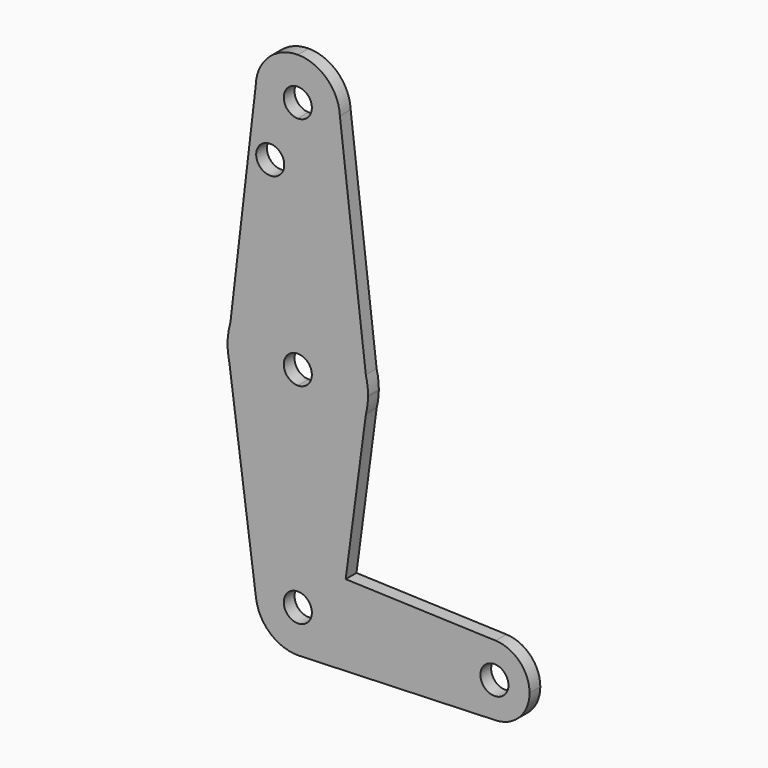
from build123d import *

# Parameters (mm, degrees)
F0_R     = 3.175
F1_DEPTH = 3.048


with BuildPart() as f1:
    # F0 (on Front) → F1 (new body)
    with BuildSketch(Plane.XZ):
        with BuildLine():
            ThreePointArc((-97.190643335, 74.3602226092), (-100.121969827, 80.8210350642), (-106.7062930619, 83.463280344))
            Line((-106.7062930619, 83.463280344), (-106.7062930619, 77.113280344))
            ThreePointArc((-106.7062930619, 77.113280344), (-104.4612290316, 76.1833443743), (-103.5312930619, 73.938280344))
            ThreePointArc((-103.5312930619, 73.938280344), (-104.4612290316, 71.6932163137), (-106.7062930619, 70.763280344))
            Line((-106.7062930619, 70.763280344), (-106.7062930619, 64.413280344))
            ThreePointArc((-106.7062930619, 64.413280344), (-99.9711009711, 67.2030882532), (-97.1812930619, 73.938280344))
            ThreePointArc((-97.1812930619, 73.938280344), (-97.1836309171, 74.1493032709), (-97.190643335, 74.3602226092))
        make_face()
        with BuildLine():
            Line((-106.7062930619, 77.113280344), (-106.7062930619, 83.463280344))
            ThreePointArc((-106.7062930619, 83.463280344), (-113.3589155182, 80.7550419985), (-116.2284645394, 74.1703909904))
            ThreePointArc((-116.2284645394, 74.1703909904), (-113.5230547163, 67.2856578877), (-106.7062930619, 64.413280344))
            Line((-106.7062930619, 64.413280344), (-106.7062930619, 70.763280344))
            ThreePointArc((-106.7062930619, 70.763280344), (-109.8812930619, 73.938280344), (-106.7062930619, 77.113280344))
        make_face()
        with BuildLine():
            Line((-91.3305569208, 24.7476115825), (-97.190643335, 74.3602226092))
            ThreePointArc((-97.190643335, 74.3602226092), (-97.1836309171, 74.1493032709), (-97.1812930619, 73.938280344))
            ThreePointArc((-97.1812930619, 73.938280344), (-99.9711009711, 67.2030882532), (-106.7062930619, 64.413280344))
            Line((-106.7062930619, 64.413280344), (-106.7062930619, 36.6726289093))
            ThreePointArc((-106.7062930619, 36.6726289093), (-96.977221933, 33.3419822194), (-91.3305569208, 24.7476115825))
        make_face()
        with BuildLine():
            ThreePointArc((-106.7062930619, 64.413280344), (-113.5230547163, 67.2856578877), (-116.2284645394, 74.1703909904))
            Line((-116.2284645394, 74.1703909904), (-121.9364228074, 25.2763310577))
            ThreePointArc((-121.9364228074, 25.2763310577), (-116.2172401334, 33.5081564674), (-106.7062930619, 36.6726289093))
            Line((-106.7062930619, 36.6726289093), (-106.7062930619, 64.413280344))
        make_face()
        with Locations((-112.9446998239, 60.5451092124)):
            Circle(F0_R, mode=Mode.SUBTRACT)
        with BuildLine():
            Line((-90.8334058763, 20.5386358703), (-91.3305569208, 24.7476115825))
            ThreePointArc((-91.3305569208, 24.7476115825), (-96.977221933, 33.3419822194), (-106.7062930619, 36.6726289093))
            Line((-106.7062930619, 36.6726289093), (-106.7062930619, 23.9726289093))
            ThreePointArc((-106.7062930619, 23.9726289093), (-104.4612290316, 23.0426929396), (-103.5312930619, 20.7976289093))
            ThreePointArc((-103.5312930619, 20.7976289093), (-104.4612290316, 18.5525648791), (-106.7062930619, 17.6226289093))
            Line((-106.7062930619, 17.6226289093), (-106.7062930619, 4.9226289093))
            ThreePointArc((-106.7062930619, 4.9226289093), (-96.9573127505, 8.2687419721), (-91.3180887059, 16.8965019314))
            Line((-91.3180887059, 16.8965019314), (-90.8334058763, 20.5386358703))
        make_face()
        with BuildLine():
            ThreePointArc((-90.8312930619, 20.7976289093), (-90.9566036008, 22.7883340306), (-91.3305569208, 24.7476115825))
            Line((-91.3305569208, 24.7476115825), (-90.8334058763, 20.5386358703))
            ThreePointArc((-90.8334058763, 20.5386358703), (-90.8318212743, 20.6681280809), (-90.8312930619, 20.7976289093))
        make_face()
        with BuildLine():
            Line((-122.5585151056, 19.9475222821), (-121.9364228074, 25.2763310577))
            ThreePointArc((-121.9364228074, 25.2763310577), (-122.4742098212, 22.6383967032), (-122.5585151056, 19.9475222821))
        make_face()
        with BuildLine():
            ThreePointArc((-106.7062930619, 36.6726289093), (-116.2172401334, 33.5081564674), (-121.9364228074, 25.2763310577))
            Line((-121.9364228074, 25.2763310577), (-122.5585151056, 19.9475222821))
            Line((-122.5585151056, 19.9475222821), (-122.2211590079, 17.435403504))
            ThreePointArc((-122.2211590079, 17.435403504), (-116.6722425071, 8.4406277903), (-106.7062930619, 4.9226289093))
            Line((-106.7062930619, 4.9226289093), (-106.7062930619, 17.6226289093))
            ThreePointArc((-106.7062930619, 17.6226289093), (-109.8812930619, 20.7976289093), (-106.7062930619, 23.9726289093))
            Line((-106.7062930619, 23.9726289093), (-106.7062930619, 36.6726289093))
        make_face()
        with BuildLine():
            ThreePointArc((-91.3180887059, 16.8965019314), (-90.9700213942, 18.7034992571), (-90.8334058763, 20.5386358703))
            Line((-90.8334058763, 20.5386358703), (-91.3180887059, 16.8965019314))
        make_face()
        with BuildLine():
            Line((-122.2211590079, 17.435403504), (-122.5585151056, 19.9475222821))
            ThreePointArc((-122.5585151056, 19.9475222821), (-122.4400541325, 18.6847191686), (-122.2211590079, 17.435403504))
        make_face()
        with BuildLine():
            Line((-95.8810541015, -17.3917585872), (-91.3180887059, 16.8965019314))
            ThreePointArc((-91.3180887059, 16.8965019314), (-96.9573127505, 8.2687419721), (-106.7062930619, 4.9226289093))
            Line((-106.7062930619, 4.9226289093), (-106.7062930619, -17.0063675549))
            ThreePointArc((-106.7062930619, -17.0063675549), (-106.3674067324, -17.0123980174), (-106.028949514, -17.0304817689))
            Line((-106.028949514, -17.0304817689), (-95.8810541015, -17.3917585872))
        make_face()
        with BuildLine():
            ThreePointArc((-106.7062930619, 4.9226289093), (-116.6722425071, 8.4406277903), (-122.2211590079, 17.435403504))
            Line((-122.2211590079, 17.435403504), (-116.1465497043, -27.7991133993))
            ThreePointArc((-116.1465497043, -27.7991133993), (-113.8757039222, -20.2603889298), (-106.7062930619, -17.0063675549))
            Line((-106.7062930619, -17.0063675549), (-106.7062930619, 4.9226289093))
        make_face()
        with BuildLine():
            Line((-61.9738877873, -18.5988929403), (-95.8810541015, -17.3917585872))
            Line((-95.8810541015, -17.3917585872), (-97.0973222591, -26.5313675549))
            Line((-97.0973222591, -26.5313675549), (-70.1937930619, -26.5313675549))
            ThreePointArc((-70.1937930619, -26.5313675549), (-67.7682035466, -20.819734771), (-61.9738877873, -18.5988929403))
        make_face()
        with BuildLine():
            Line((-97.0973222591, -26.5313675549), (-95.8810541015, -17.3917585872))
            Line((-95.8810541015, -17.3917585872), (-106.028949514, -17.0304817689))
            ThreePointArc((-106.028949514, -17.0304817689), (-99.7357363304, -20.0400684666), (-97.1812930619, -26.5313675549))
            Line((-97.1812930619, -26.5313675549), (-97.0973222591, -26.5313675549))
        make_face()
        with BuildLine():
            ThreePointArc((-106.7062930619, -17.0063675549), (-113.8757039222, -20.2603889298), (-116.1465497043, -27.7991133993))
            ThreePointArc((-116.1465497043, -27.7991133993), (-112.8850424708, -33.78041444), (-106.4626122264, -36.053249966))
            Line((-106.4626122264, -36.053249966), (-106.269860848, -36.0463637148))
            ThreePointArc((-106.269860848, -36.0463637148), (-99.8185270294, -33.1104483479), (-97.1812930619, -26.5313675549))
            Line((-97.1812930619, -26.5313675549), (-103.5312930619, -26.5313675549))
            ThreePointArc((-103.5312930619, -26.5313675549), (-108.9513570922, -28.7764315852), (-106.7062930619, -23.3563675549))
            Line((-106.7062930619, -23.3563675549), (-106.7062930619, -17.0063675549))
        make_face()
        with BuildLine():
            Line((-70.1937930619, -26.5313675549), (-97.0973222591, -26.5313675549))
            Line((-97.0973222591, -26.5313675549), (-97.1812930619, -26.5313675549))
            ThreePointArc((-97.1812930619, -26.5313675549), (-99.8185270294, -33.1104483479), (-106.269860848, -36.0463637148))
            Line((-106.269860848, -36.0463637148), (-61.9728980991, -34.4638068736))
            ThreePointArc((-61.9728980991, -34.4638068736), (-67.7678472317, -32.2433441728), (-70.1937930619, -26.5313675549))
        make_face()
        with BuildLine():
            ThreePointArc((-54.3187930619, -26.5313675549), (-56.544660278, -21.0194570702), (-61.9738877873, -18.5988929403))
            ThreePointArc((-61.9738877873, -18.5988929403), (-67.7682035466, -20.819734771), (-70.1937930619, -26.5313675549))
            ThreePointArc((-70.1937930619, -26.5313675549), (-67.7678472317, -32.2433441728), (-61.9728980991, -34.4638068736))
            ThreePointArc((-61.9728980991, -34.4638068736), (-56.544316444, -32.0429217247), (-54.3187930619, -26.5313675549))
        make_face()
        with BuildLine():
            ThreePointArc((-59.0812930619, -26.5313675549), (-62.2562930619, -29.7063675549), (-65.4312930619, -26.5313675549))
            ThreePointArc((-65.4312930619, -26.5313675549), (-62.2562930619, -23.3563675549), (-59.0812930619, -26.5313675549))
        make_face(mode=Mode.SUBTRACT)
        with BuildLine():
            Line((-106.269860848, -36.0463637148), (-106.4626122264, -36.053249966))
            ThreePointArc((-106.4626122264, -36.053249966), (-106.3662191065, -36.0502947373), (-106.269860848, -36.0463637148))
        make_face()
        with BuildLine():
            Line((-106.028949514, -17.0304817689), (-106.7062930619, -17.0063675549))
            Line((-106.7062930619, -17.0063675549), (-106.7062930619, -23.3563675549))
            ThreePointArc((-106.7062930619, -23.3563675549), (-104.4612290316, -24.2863035246), (-103.5312930619, -26.5313675549))
            Line((-103.5312930619, -26.5313675549), (-97.1812930619, -26.5313675549))
            ThreePointArc((-97.1812930619, -26.5313675549), (-99.7357363304, -20.0400684666), (-106.028949514, -17.0304817689))
        make_face()
    extrude(amount=F1_DEPTH)


solid = f1.part
